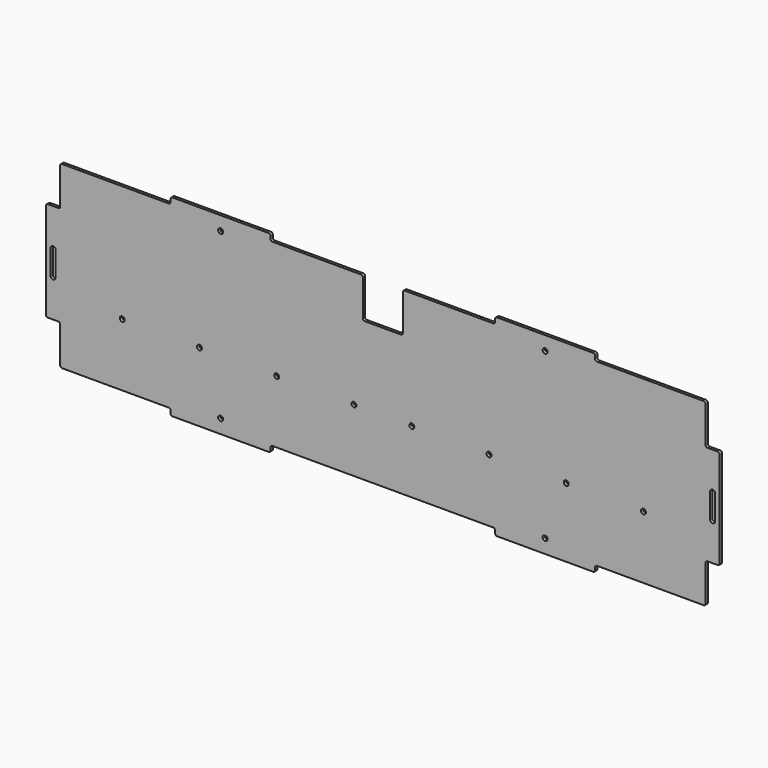
from build123d import *

# Parameters (mm, degrees)
SKETCH_R  = 1.627
PAD_DEPTH = 1.8542


with BuildPart() as part:
    # Sketch (on Face16 of Binder001) → Pad (new body)
    with BuildSketch(Plane.XZ.offset(-127.2271)):
        with BuildLine():
            Line((0, -23.379), (-6.8772, -23.379))
            ThreePointArc((-6.8772, -23.379), (-7.725728, -23.730472), (-8.0772, -24.579))
            Line((-8.0772, -24.579), (-8.0772, -87.921))
            ThreePointArc((-8.0772, -87.921), (-7.725728, -88.769528), (-6.8772, -89.121))
            Line((-6.8772, -89.121), (0, -89.121))
            ThreePointArc((1.2, -90.321), (0.848528, -89.472472), (0, -89.121))
            Line((1.2, -90.321), (1.2, -114.1729))
            ThreePointArc((1.2, -114.1729), (1.551472, -115.021428), (2.4, -115.3729))
            Line((2.4, -115.3729), (72.679, -115.3729))
            ThreePointArc((73.879, -116.5729), (73.527528, -115.724372), (72.679, -115.3729))
            Line((73.879, -116.5729), (73.879, -118.4271))
            ThreePointArc((73.879, -118.4271), (74.230472, -119.275628), (75.079, -119.6271))
            Line((75.079, -119.6271), (138.421, -119.6271))
            ThreePointArc((138.421, -119.6271), (139.269528, -119.275628), (139.621, -118.4271))
            Line((139.621, -118.4271), (139.621, -116.5729))
            ThreePointArc((140.821, -115.3729), (139.972472, -115.724372), (139.621, -116.5729))
            Line((140.821, -115.3729), (286.179, -115.3729))
            ThreePointArc((287.379, -116.5729), (287.027528, -115.724372), (286.179, -115.3729))
            Line((287.379, -116.5729), (287.379, -118.4271))
            ThreePointArc((287.379, -118.4271), (287.730472, -119.275628), (288.579, -119.6271))
            Line((288.579, -119.6271), (351.921, -119.6271))
            ThreePointArc((351.921, -119.6271), (352.769528, -119.275628), (353.121, -118.4271))
            Line((353.121, -118.4271), (353.121, -116.5729))
            ThreePointArc((354.321, -115.3729), (353.472472, -115.724372), (353.121, -116.5729))
            Line((354.321, -115.3729), (424.6, -115.3729))
            ThreePointArc((424.6, -115.3729), (425.448528, -115.021428), (425.8, -114.1729))
            Line((425.8, -114.1729), (425.8, -90.321))
            ThreePointArc((427, -89.121), (426.151472, -89.472472), (425.8, -90.321))
            Line((427, -89.121), (433.8772, -89.121))
            ThreePointArc((433.8772, -89.121), (434.725728, -88.769528), (435.0772, -87.921))
            Line((435.0772, -87.921), (435.0772, -24.579))
            ThreePointArc((435.0772, -24.579), (434.725728, -23.730472), (433.8772, -23.379))
            Line((433.8772, -23.379), (427, -23.379))
            ThreePointArc((425.8, -22.179), (426.151472, -23.027528), (427, -23.379))
            Line((425.8, -22.179), (425.8, 1.6729))
            ThreePointArc((425.8, 1.6729), (425.448528, 2.521428), (424.6, 2.8729))
            Line((424.6, 2.8729), (354.321, 2.8729))
            ThreePointArc((353.121, 4.0729), (353.472472, 3.224372), (354.321, 2.8729))
            Line((353.121, 4.0729), (353.121, 5.9271))
            ThreePointArc((353.121, 5.9271), (352.769528, 6.775628), (351.921, 7.1271))
            Line((351.921, 7.1271), (288.579, 7.1271))
            ThreePointArc((288.579, 7.1271), (287.730472, 6.775628), (287.379, 5.9271))
            Line((287.379, 5.9271), (287.379, 4.0729))
            ThreePointArc((286.179, 2.8729), (287.027528, 3.224372), (287.379, 4.0729))
            Line((286.179, 2.8729), (227.82595, 2.8729))
            ThreePointArc((227.82595, 2.8729), (226.977422, 2.521428), (226.62595, 1.6729))
            Line((226.62595, 1.6729), (226.62595, -22.179))
            ThreePointArc((225.42595, -23.379), (226.274478, -23.027528), (226.62595, -22.179))
            Line((225.42595, -23.379), (201.57405, -23.379))
            ThreePointArc((200.37405, -22.179), (200.725522, -23.027528), (201.57405, -23.379))
            Line((200.37405, -22.179), (200.37405, 1.6729))
            ThreePointArc((200.37405, 1.6729), (200.022578, 2.521428), (199.17405, 2.8729))
            Line((199.17405, 2.8729), (140.821, 2.8729))
            ThreePointArc((139.621, 4.0729), (139.972472, 3.224372), (140.821, 2.8729))
            Line((139.621, 4.0729), (139.621, 5.9271))
            ThreePointArc((139.621, 5.9271), (139.269528, 6.775628), (138.421, 7.1271))
            Line((138.421, 7.1271), (75.079, 7.1271))
            ThreePointArc((75.079, 7.1271), (74.230472, 6.775628), (73.879, 5.9271))
            Line((73.879, 5.9271), (73.879, 4.0729))
            ThreePointArc((72.679, 2.8729), (73.527528, 3.224372), (73.879, 4.0729))
            Line((72.679, 2.8729), (2.4, 2.8729))
            ThreePointArc((2.4, 2.8729), (1.551472, 2.521428), (1.2, 1.6729))
            Line((1.2, 1.6729), (1.2, -22.179))
            ThreePointArc((0, -23.379), (0.848528, -23.027528), (1.2, -22.179))
        make_face()
        with Locations((194.45, -74.03)):
            Circle(SKETCH_R, mode=Mode.SUBTRACT)
        with Locations((232.55, -74.03)):
            Circle(SKETCH_R, mode=Mode.SUBTRACT)
        with Locations((283.35, -74.03)):
            Circle(SKETCH_R, mode=Mode.SUBTRACT)
        with Locations((334.15, -74.03)):
            Circle(SKETCH_R, mode=Mode.SUBTRACT)
        with Locations((384.95, -74.03)):
            Circle(SKETCH_R, mode=Mode.SUBTRACT)
        with Locations((143.65, -74.03)):
            Circle(SKETCH_R, mode=Mode.SUBTRACT)
        with Locations((92.85, -74.03)):
            Circle(SKETCH_R, mode=Mode.SUBTRACT)
        with Locations((42.05, -74.03)):
            Circle(SKETCH_R, mode=Mode.SUBTRACT)
        with Locations((106.75, -2.0081)):
            Circle(SKETCH_R, mode=Mode.SUBTRACT)
        with Locations((106.75, -110.4919)):
            Circle(SKETCH_R, mode=Mode.SUBTRACT)
        with Locations((320.25, -110.4919)):
            Circle(SKETCH_R, mode=Mode.SUBTRACT)
        with Locations((320.25, -2.0081)):
            Circle(SKETCH_R, mode=Mode.SUBTRACT)
        with BuildLine():
            ThreePointArc((-1.7272, -48.25), (-3.4417, -46.5355), (-5.1562, -48.25))
            Line((-5.1562, -48.25), (-5.1562, -64.25))
            ThreePointArc((-5.1562, -64.25), (-3.4417, -65.9645), (-1.7272, -64.25))
            Line((-1.7272, -48.25), (-1.7272, -64.25))
        make_face(mode=Mode.SUBTRACT)
        with BuildLine():
            ThreePointArc((432.1562, -48.25), (430.4417, -46.5355), (428.7272, -48.25))
            Line((428.7272, -48.25), (428.7272, -64.25))
            ThreePointArc((428.7272, -64.25), (430.4417, -65.9645), (432.1562, -64.25))
            Line((432.1562, -48.25), (432.1562, -64.25))
        make_face(mode=Mode.SUBTRACT)
    extrude(amount=PAD_DEPTH)


solid = part.part
